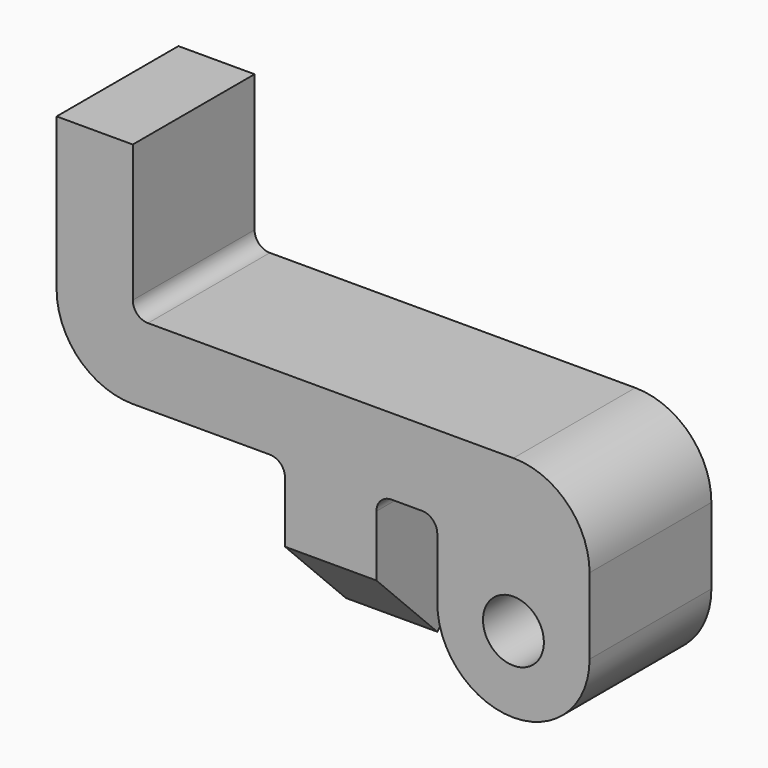
from build123d import *

# Parameters (mm, degrees)
F0_R     = 2
F1_DEPTH = 10
F2_R     = 1
F4_DEPTH = 6


with BuildPart() as f1:
    # F0 (on Front) → F1 (new body)
    with BuildSketch(Plane.XZ):
        with BuildLine():
            Line((5, 18.538928), (0, 18.538928))
            Line((0, 18.538928), (0, 8.538928))
            ThreePointArc((0, 8.538928), (1.464466, 5.003394), (5, 3.538928))
            Line((5, 3.538928), (14, 3.538928))
            ThreePointArc((14, 3.538928), (14.707107, 3.246035), (15, 2.538928))
            Line((15, 2.538928), (15, -6.461072))
            Line((15, -6.461072), (21, -6.461072))
            Line((21, -6.461072), (21, 2.538928))
            ThreePointArc((21, 2.538928), (21.292893, 3.246035), (22, 3.538928))
            Line((22, 3.538928), (24, 3.538928))
            ThreePointArc((24, 3.538928), (24.707107, 3.246035), (25, 2.538928))
            Line((25, 2.538928), (25, -1.461072))
            ThreePointArc((25, -1.461072), (26.464466, -4.996606), (30, -6.461072))
            ThreePointArc((30, -6.461072), (33.535534, -4.996606), (35, -1.461072))
            Line((35, -1.461072), (35, 3.538928))
            ThreePointArc((35, 3.538928), (33.535534, 7.074462), (30, 8.538928))
            Line((30, 8.538928), (5, 8.538928))
            Line((5, 8.538928), (5, 18.538928))
        make_face()
        with Locations((30, -1.461072)):
            Circle(F0_R, mode=Mode.SUBTRACT)
    extrude(amount=F1_DEPTH)

    # F2
    f2_edges = [f1.edges().sort_by_distance(p)[0] for p in [
        (5, -5, 8.538928),
    ]]
    fillet(f2_edges, radius=F2_R)

    # F3 (on face) → F4 (cut)
    with BuildSketch(Plane(origin=(15, 0, 0), x_dir=(0, -1, 0), z_dir=(-1, 0, 0))):
        Polygon((0, -6.461072), (5, -6.461072), (0, -1.461072), align=None)
        Polygon((10, -1.461072), (5, -6.461072), (10, -6.461072), align=None)
    extrude(amount=-F4_DEPTH, mode=Mode.SUBTRACT)


solid = f1.part
